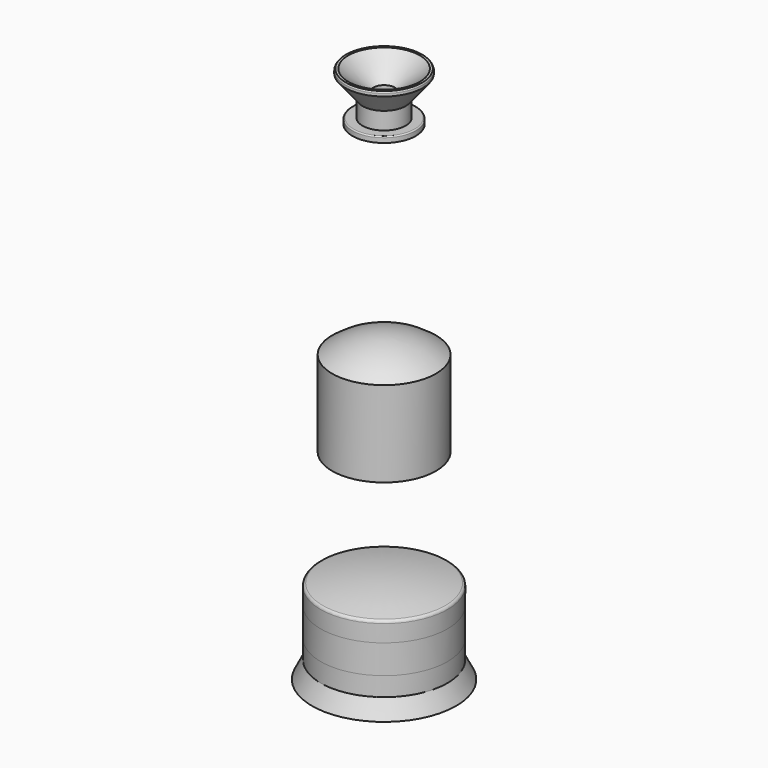
from build123d import *

# Parameters (mm, degrees)
F2_W = 1.875
F2_H = 3
F4_R = 0.2
F5_W = 0.7215710953
F5_H = 5
F8_R = 0.5


with BuildPart() as f1:
    # F0 (on Front) → F1 (revolve)
    with BuildSketch(Plane.XZ):
        with BuildLine():
            Line((0, 18), (0, 15))
            Line((0, 15), (3.25, 15))
            Line((3.25, 15), (3.25, 4))
            Line((3.25, 4), (8.25, 4))
            Line((8.25, 4), (8.25, 0))
            Line((8.25, 0), (9, 0))
            Line((9, 0), (9, 14.8594207869))
            ThreePointArc((9, 14.8594207869), (4.7661105158, 17.1923068699), (0, 18))
        make_face()
    revolve(axis=Axis((0, 0, 9), (0, 0, 1)))


with BuildPart() as f3:
    # F2 (on Front) → F3 (revolve)
    with BuildSketch(Plane.XZ):
        with BuildLine():
            Line((1.875, 55), (1.875, 54))
            Line((1.875, 54), (3.75, 54))
            Line((3.75, 54), (6.75, 57.75))
            Line((6.75, 57.75), (6.75, 58.0503940582))
            Line((6.75, 58.0503940582), (6.75, 58.2212944026))
            ThreePointArc((6.75, 58.2212944026), (6.6990989647, 58.3721854813), (6.6041122191, 58.5))
            Line((6.6041122191, 58.5), (6.1982930638, 58.5))
            Line((6.1982930638, 58.5), (1.875, 55))
        make_face()
        with Locations((2.8125, 52.5)):
            Rectangle(F2_W, F2_H)
        Polygon((1.875, 51), (1.875, 50), (5.5, 50), (5.5, 51), (3.75, 51), align=None)
    revolve(axis=Axis((0, 0, 54.25), (0, 0, 1)))

    # F4
    f4_edges = [f3.edges().sort_by_distance(p)[0] for p in [
        (-5.5, 0, 51),
    ]]
    fillet(f4_edges, radius=F4_R)


with BuildPart() as f6:
    # F5 (on Front) → F6 (revolve)
    with BuildSketch(Plane.XZ):
        with BuildLine():
            Line((3.25, -31.7198918813), (7.69546628, -31.7198918813))
            Line((7.69546628, -31.7198918813), (11, -31.7198918813))
            Line((11, -31.7198918813), (11, -28.4436289221))
            Line((11, -28.4436289221), (10.2784289047, -28.4436289221))
            Line((10.2784289047, -28.4436289221), (10.2784289047, -23.4436289221))
            Line((10.2784289047, -23.4436289221), (11, -23.4436289221))
            Line((11, -23.4436289221), (11, -20.1032764325))
            ThreePointArc((11, -20.1032764325), (5.5433237506, -19.0670947983), (0, -18.7198918813))
            Line((0, -18.7198918813), (0, -20.8550542593))
            Line((0, -20.8550542593), (3.25, -20.8550542593))
            Line((3.25, -20.8550542593), (3.25, -31.7198918813))
        make_face()
        Polygon((7.69546628, -31.7198918813), (11.3709494472, -34.7198918813), (12.5, -34.7198918813), (11, -31.7198918813), align=None)
    revolve(axis=Axis((0, 0, -26.2874730703), (0, 0, 1)))

    # F8
    f8_edges = [f6.edges().sort_by_distance(p)[0] for p in [
        (-11, 0, -20.103276),
    ]]
    fillet(f8_edges, radius=F8_R)


with BuildPart() as f7:
    # F5 (on Front) → F7 (revolve)
    with BuildSketch(Plane.XZ):
        with Locations((10.6392144524, -25.9436289221)):
            Rectangle(F5_W, F5_H)
    revolve(axis=Axis((0, 0, -28.4436289221), (0, 0, 1)))


solid = Compound([f1.part, f3.part, f6.part, f7.part])
